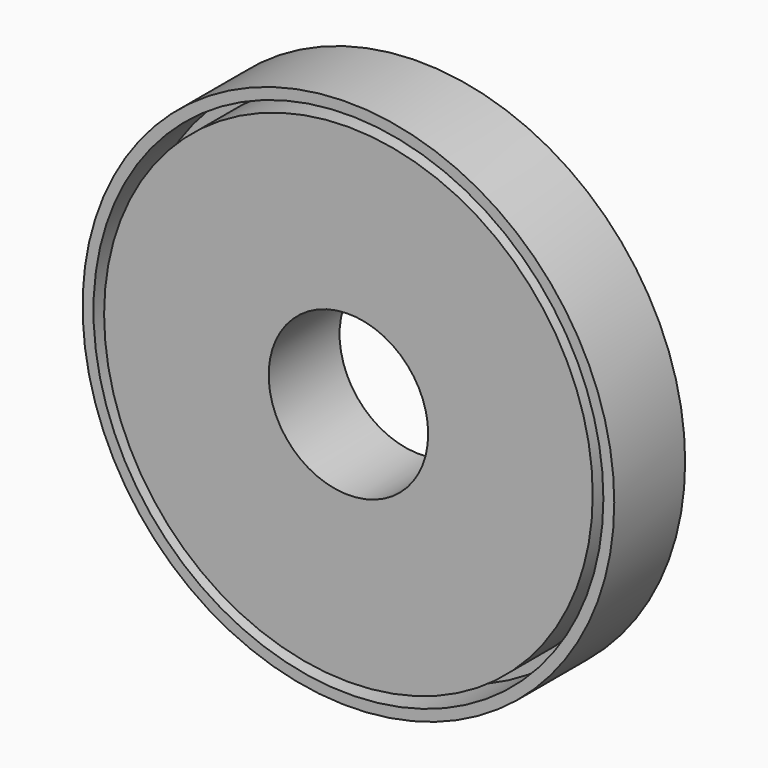
from build123d import *

# Parameters (mm, degrees)
F0_R     = 75
F0_R_2   = 20.666788
F1_DEPTH = 25
F2_R     = 22.5
F3_DEPTH = 25.001
F4_R     = 71.929289
F4_R_2   = 68.929292
F5_DEPTH = 15


with BuildPart() as f1:
    # F0 (on Front) → F1 (new body)
    with BuildSketch(Plane.XZ):
        Circle(F0_R)
        Circle(F0_R_2, mode=Mode.SUBTRACT)
        Circle(F0_R_2)
    extrude(amount=F1_DEPTH)

    # F2 (on face) → F3 (cut, through all)
    with BuildSketch(Plane.XZ.offset(25)):
        Circle(F2_R)
    extrude(amount=-F3_DEPTH, mode=Mode.SUBTRACT)

    # F4 (on face) → F5 (cut)
    with BuildSketch(Plane.XZ.offset(25)):
        Circle(F4_R)
        Circle(F4_R_2, mode=Mode.SUBTRACT)
    extrude(amount=-F5_DEPTH, mode=Mode.SUBTRACT)


solid = f1.part
